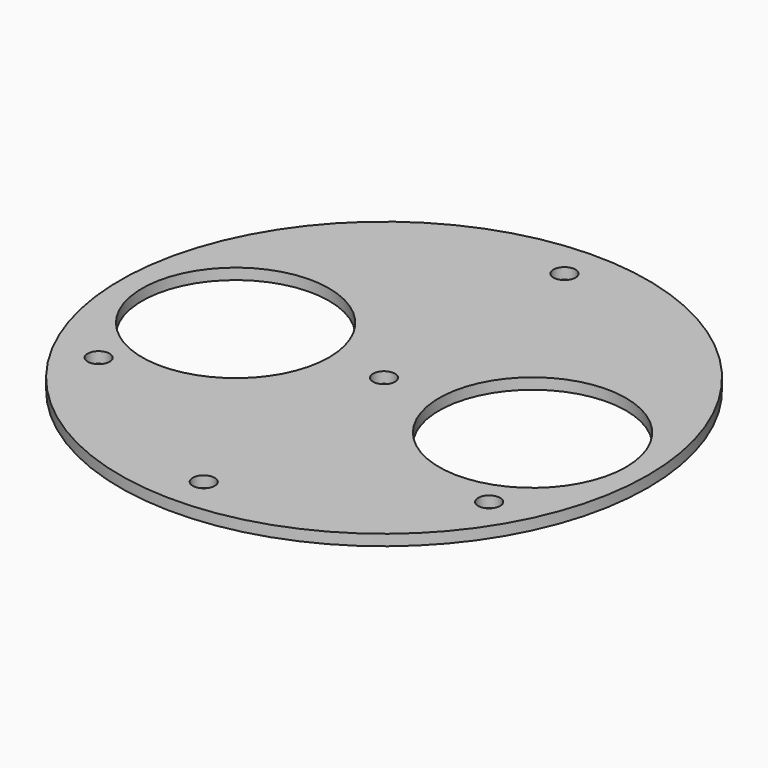
from build123d import *

# Parameters (mm, degrees)
F0_R     = 72
F1_DEPTH = 3
F2_R     = 25.5
F3_DEPTH = 3
F4_R     = 3
F5_DEPTH = 25.4
F6_R     = 3
F7_DEPTH = 25.4


with BuildPart() as f1:
    # F0 (on Top) → F1 (new body)
    with BuildSketch(Plane.XY):
        Circle(F0_R)
    extrude(amount=F1_DEPTH)

    # F2 (on face) → F3 (cut)
    with BuildSketch(Plane.XY.offset(3)):
        with Locations((-40.5, 0)):
            Circle(F2_R)
        with Locations((40.5, 0)):
            Circle(F2_R)
    extrude(amount=-F3_DEPTH, mode=Mode.SUBTRACT)

    # F4 (on face) → F5 (cut)
    with BuildSketch(Plane.XY.offset(3)):
        with Locations((0, 61.5)):
            Circle(F4_R)
        Circle(F4_R)
        with Locations((0, -61.5)):
            Circle(F4_R)
    extrude(amount=-F5_DEPTH, mode=Mode.SUBTRACT)

    # F6 (on face) → F7 (cut)
    with BuildSketch(Plane.XY.offset(3)):
        with Locations((-53.260562, -30.75)):
            Circle(F6_R)
        with Locations((53.260562, -30.75)):
            Circle(F6_R)
    extrude(amount=-F7_DEPTH, mode=Mode.SUBTRACT)


solid = f1.part
